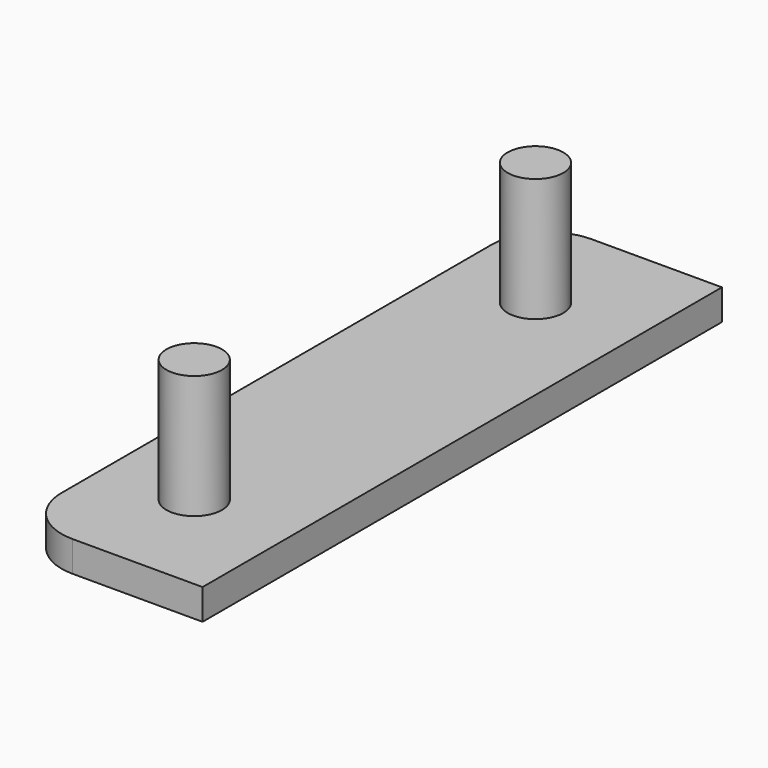
from build123d import *

# Parameters (mm, degrees)
F0_W     = 20
F0_H     = 3.3
F1_DEPTH = 70
F2_R     = 3
F3_DEPTH = 13.3
F4_R     = 6


with BuildPart() as f1:
    # F0 (on Front) → F1 (new body)
    with BuildSketch(Plane.XZ):
        with Locations((-2.78839, 1.65)):
            Rectangle(F0_W, F0_H)
    extrude(amount=F1_DEPTH)

    # F2 (on face) → F3 (join)
    with BuildSketch(Plane.XY.offset(3.3)):
        with Locations((-3.28839, -12)):
            Circle(F2_R)
        with Locations((-3.28839, -58)):
            Circle(F2_R)
    extrude(amount=F3_DEPTH)

    # F4
    f4_edges = [f1.edges().sort_by_distance(p)[0] for p in [
        (-12.78839, 0, 1.65),
        (-12.78839, -70, 1.65),
    ]]
    fillet(f4_edges, radius=F4_R)


solid = f1.part
